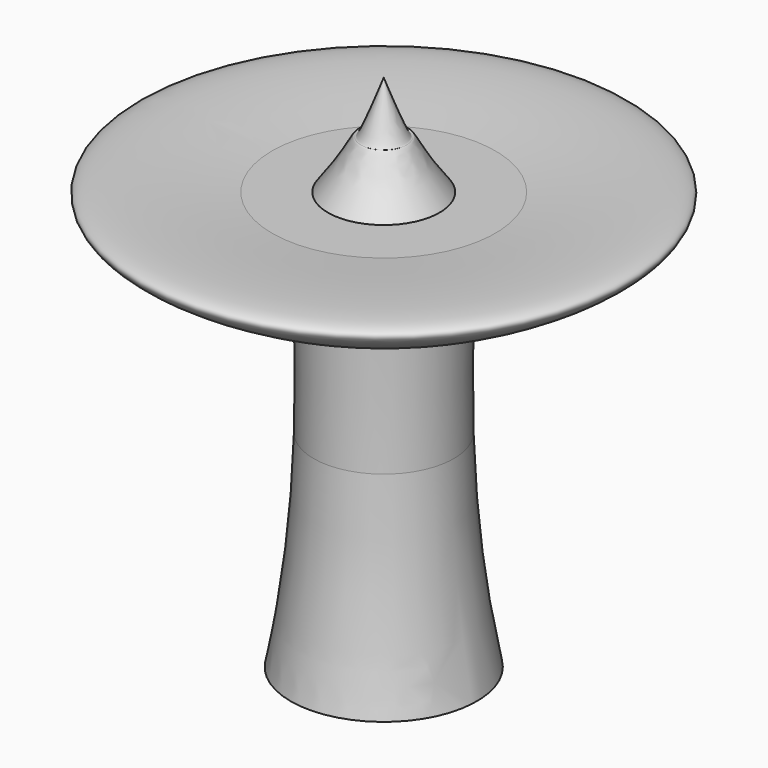
from build123d import *


with BuildPart() as f1:
    # F0 (on Front) → F1 (revolve)
    with BuildSketch(Plane.XZ):
        with BuildLine():
            Line((0, -27.5497364838), (0, 0))
            Line((0, 0), (-7.2589721531, 0))
            Line((-7.2589721531, 0), (-14.5179443061, 0))
            add(Edge.make_bspline(
                [(-14.5179443061, 0), (-9.3775563899, -2.8154343998), (-9.3198215703, -6.833216557), (-9.1946972534, -12.4227413908)],
                knots=[0, 0, 0, 0, 0.3618334222, 0.3618334222, 0.3618334222, 0.3618334222], degree=3))
            add(Edge.make_bspline(
                [(-9.1946972534, -12.4227413908), (-9.100447363, -16.6330509134), (-8.967961646, -21.735144514), (-9.1239953895, -27.5497364838)],
                knots=[0.3618334222, 0.3618334222, 0.3618334222, 0.3618334222, 0.6343844436, 0.6343844436, 0.6343844436, 0.6343844436], degree=3))
            Line((-9.1239953895, -27.5497364838), (0, -27.5497364838))
        make_face()
    revolve(axis=Axis((0, 0, -20.6276285462), (0, 0, -1)))

    # F0 (on Front) → F2 (revolve)
    with BuildSketch(Plane.XZ):
        with BuildLine():
            Line((-7.2589721531, 0), (0, 0))
            Line((0, 0), (0, 13.1082097068))
            add(Edge.make_bspline(
                [(-7.2589721531, 0), (-4.4924598292, 3.6052925076), (-2.4045022184, 8.5794495739), (-3.145750045, 4.6283610629), (0, 13.1082097068)],
                knots=[0, 0, 0, 0, 0.5024682649, 1, 1, 1, 1], degree=3))
        make_face()
    revolve(axis=Axis((0, 0, -20.6276285462), (0, 0, -1)))

    # F0 (on Front) → F3 (revolve)
    with BuildSketch(Plane.XZ):
        with BuildLine():
            add(Edge.make_bspline(
                [(-14.5179443061, 0), (-9.3775563899, -2.8154343998), (-9.3198215703, -6.833216557), (-9.1946972534, -12.4227413908)],
                knots=[0, 0, 0, 0, 0.3618334222, 0.3618334222, 0.3618334222, 0.3618334222], degree=3))
            add(Edge.make_bspline(
                [(-14.5179443061, 0), (-22.9265928726, 0.7617920093), (-41.616939242, 2.4550672606), (-20.7008130193, -7.1428539374), (-9.1946972534, -12.4227413908)],
                knots=[0, 0, 0, 0, 0.4498926023, 1, 1, 1, 1], degree=3))
        make_face()
    revolve(axis=Axis((0, 0, -20.6276285462), (0, 0, -1)))

    # F0 (on Front) → F4 (revolve)
    with BuildSketch(Plane.XZ):
        with BuildLine():
            Line((0, -54.3634667993), (0, -27.5497364838))
            Line((0, -27.5497364838), (-9.1239953895, -27.5497364838))
            add(Edge.make_bspline(
                [(-9.1239953895, -27.5497364838), (-9.3333079933, -35.3497633077), (-10.0618135818, -44.4319364176), (-12.0982872322, -54.3634667993)],
                knots=[0.6343844436, 0.6343844436, 0.6343844436, 0.6343844436, 1, 1, 1, 1], degree=3))
            add(Edge.make_bspline(
                [(-12.0982872322, -54.3634667993), (-8.0655248215, -54.3634667993), (-4.0327624107, -54.3634667993), (0, -54.3634667993)],
                knots=[0, 0, 0, 0, 12.0982872322, 12.0982872322, 12.0982872322, 12.0982872322], degree=3))
        make_face()
    revolve(axis=Axis((0, 0, -20.6276285462), (0, 0, -1)))


solid = f1.part
